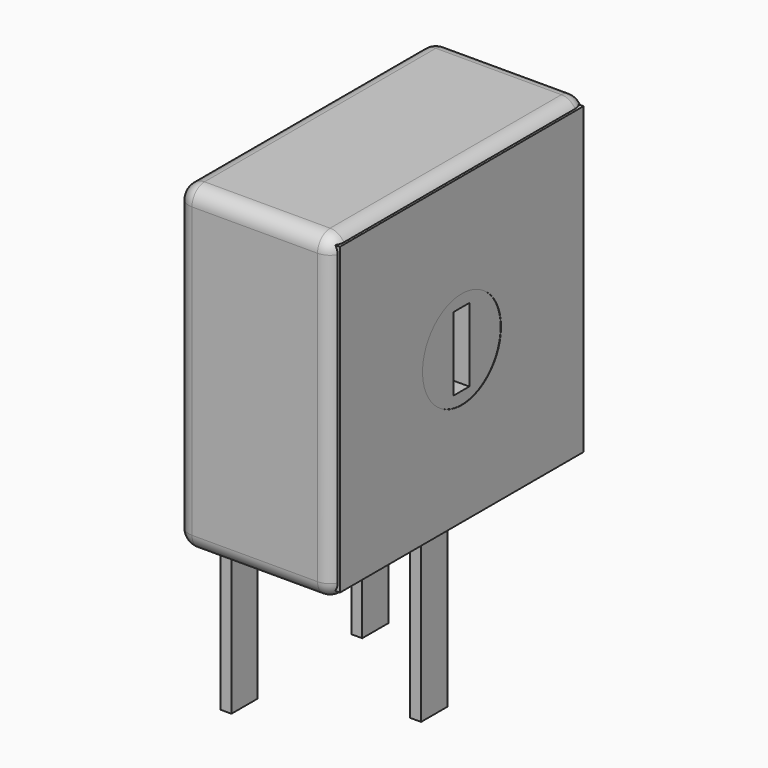
from build123d import *

# Parameters (mm, degrees)
SKETCH001_R       = 1.5
SKETCH001_W       = 0.6
SKETCH001_H       = 2.25
PAD001_DEPTH      = 4.8
SKETCH003_W       = 0.333334
SKETCH003_H       = 1
PAD002_DEPTH      = 5.1
PAD002_DEPTH_BACK = 3
SKETCH004_W       = 9.31
SKETCH004_H       = 9.31
SKETCH004_R       = 1.5
PAD003_DEPTH      = 0.2
SKETCH_W          = 9.8
SKETCH_H          = 9.8
SKETCH_R          = 1.5
PAD_DEPTH         = 4.8
FILLET_R          = 0.48


with BuildPart() as pad001:
    # Sketch001 → Pad001 (new body)
    with BuildSketch(Plane.YZ):
        with Locations((-2.5, 7.1)):
            Circle(SKETCH001_R)
        with Locations((-2.5, 7.1)):
            Rectangle(SKETCH001_W, SKETCH001_H, mode=Mode.SUBTRACT)
    extrude(amount=PAD001_DEPTH)


with BuildPart() as pad002:
    # Sketch003 → Pad002 (new body, two sides)
    with BuildSketch(Plane.XY) as pad002_sk:
        Rectangle(SKETCH003_W, SKETCH003_H)
        with Locations((3.8, -2.5)):
            Rectangle(SKETCH003_W, SKETCH003_H)
        with Locations((0, -5)):
            Rectangle(SKETCH003_W, SKETCH003_H)
    extrude(amount=PAD002_DEPTH)
    extrude(pad002_sk.sketch, amount=-PAD002_DEPTH_BACK)


with BuildPart() as pad003:
    # Sketch004 → Pad003 (new body)
    with BuildSketch(Plane.YZ.offset(4.81)):
        with Locations((-2.5, 7.1)):
            Rectangle(SKETCH004_W, SKETCH004_H)
        with Locations((-2.5, 7.1)):
            Circle(SKETCH004_R, mode=Mode.SUBTRACT)
    extrude(amount=-PAD003_DEPTH)


with BuildPart() as fillet_body:
    # Sketch → Pad (new body)
    with BuildSketch(Plane.YZ):
        with Locations((-2.5, 7.1)):
            Rectangle(SKETCH_W, SKETCH_H)
        with Locations((-2.5, 7.1)):
            Circle(SKETCH_R, mode=Mode.SUBTRACT)
    extrude(amount=PAD_DEPTH)

    # Fillet
    fillet_edges = [fillet_body.edges().sort_by_distance(p)[0] for p in [
        (0, -7.4, 7.1),
        (0, -2.5, 12),
        (4.8, -2.5, 12),
        (4.8, -7.4, 7.1),
        (4.8, 2.4, 7.1),
        (4.8, -2.5, 2.2),
        (2.4, -7.4, 12),
        (2.4, -7.4, 2.2),
        (2.4, 2.4, 2.2),
        (0, -2.5, 2.2),
        (0, 2.4, 7.1),
        (2.4, 2.4, 12),
    ]]
    fillet(fillet_edges, radius=FILLET_R)


solid = Compound([pad001.part, pad002.part, pad003.part, fillet_body.part])
